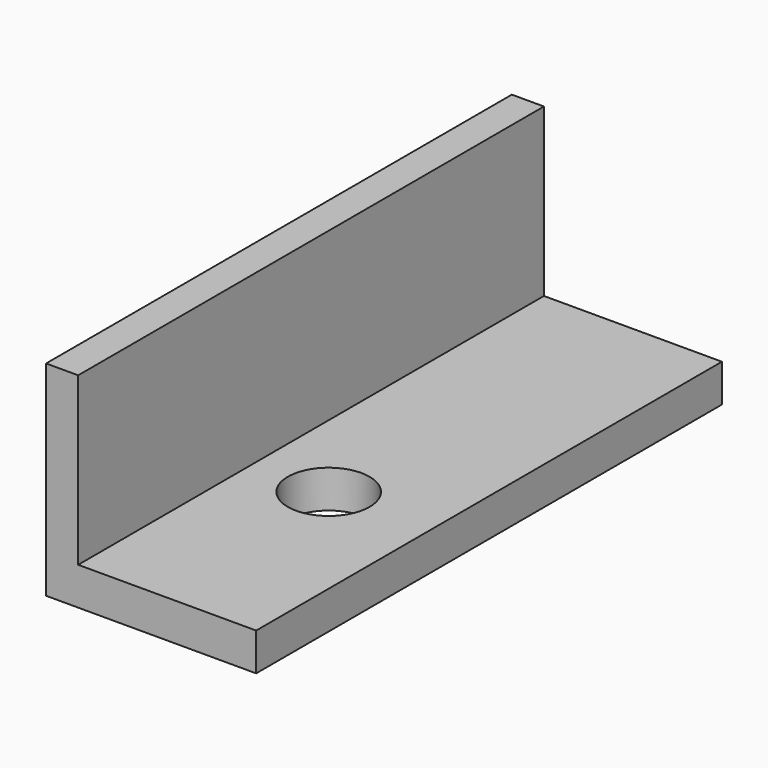
from build123d import *

# Parameters (mm, degrees)
F1_DEPTH = 50.8
F2_R     = 7.1318057121
F3_DEPTH = 25.4


with BuildPart() as f1:
    # F0 (on Front) → F1 (new body, symmetric)
    with BuildSketch(Plane.XZ):
        Polygon((0, 35.6939397752), (0, 0), (36.6625972092, 0), (36.6625972092, 6.5840519965), (5.6025939994, 6.5840519965), (5.6025939994, 35.6939397752), align=None)
    extrude(amount=F1_DEPTH, both=True)

    # F2 (on face) → F3 (cut)
    with BuildSketch(Plane.XY.offset(6.5840519965)):
        with Locations((18.8083481044, -12.6618258655)):
            Circle(F2_R)
    extrude(amount=-F3_DEPTH, mode=Mode.SUBTRACT)


solid = f1.part
